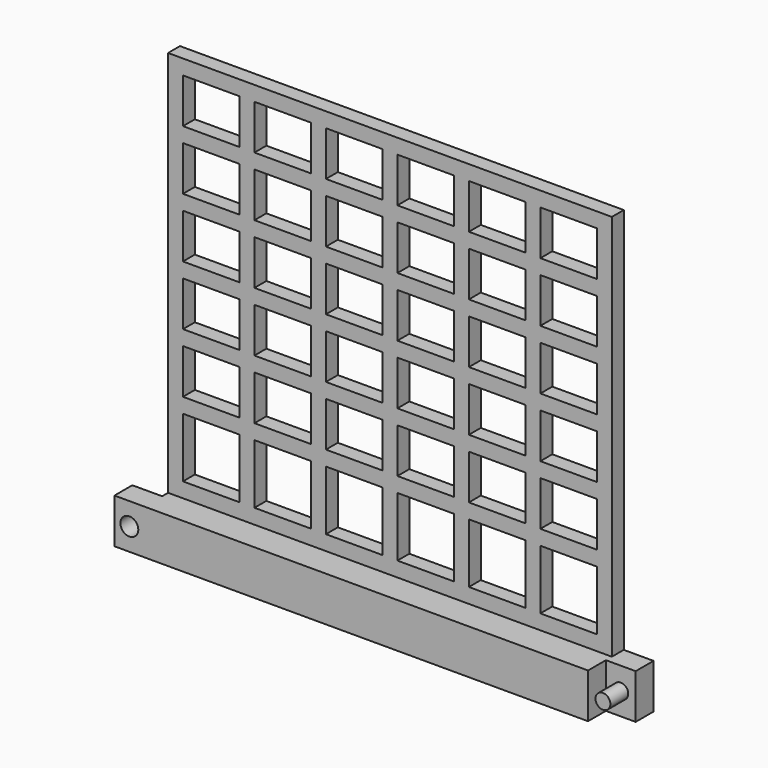
from build123d import *

# Parameters (mm, degrees)
F0_W      = 149
F0_H      = 145
F0_W_2    = 19
F0_H_2    = 20
F0_H_3    = 15
F1_DEPTH  = 5
F2_W      = 149
F2_H      = 15
F3_DEPTH  = 10
F4_W      = 7.5
F4_H      = 15
F5_DEPTH  = 10
F6_R      = 3
F7_DEPTH  = 7.5
F9_DEPTH  = 10
F10_R     = 2.5
F11_DEPTH = 7.5


with BuildPart() as f1:
    # F0 (on Front) → F1 (new body)
    with BuildSketch(Plane.XZ):
        with Locations((74.5, 72.5)):
            Rectangle(F0_W, F0_H)
        with Locations((14.5, 30)):
            Rectangle(F0_W_2, F0_H_2, mode=Mode.SUBTRACT)
        with Locations((38.5, 30)):
            Rectangle(F0_W_2, F0_H_2, mode=Mode.SUBTRACT)
        with Locations((62.5, 30)):
            Rectangle(F0_W_2, F0_H_2, mode=Mode.SUBTRACT)
        with Locations((14.5, 52.5)):
            Rectangle(F0_W_2, F0_H_3, mode=Mode.SUBTRACT)
        with Locations((38.5, 52.5)):
            Rectangle(F0_W_2, F0_H_3, mode=Mode.SUBTRACT)
        with Locations((62.5, 52.5)):
            Rectangle(F0_W_2, F0_H_3, mode=Mode.SUBTRACT)
        with Locations((86.5, 30)):
            Rectangle(F0_W_2, F0_H_2, mode=Mode.SUBTRACT)
        with Locations((110.5, 30)):
            Rectangle(F0_W_2, F0_H_2, mode=Mode.SUBTRACT)
        with Locations((134.5, 30)):
            Rectangle(F0_W_2, F0_H_2, mode=Mode.SUBTRACT)
        with Locations((86.5, 52.5)):
            Rectangle(F0_W_2, F0_H_3, mode=Mode.SUBTRACT)
        with Locations((110.5, 52.5)):
            Rectangle(F0_W_2, F0_H_3, mode=Mode.SUBTRACT)
        with Locations((134.5, 52.5)):
            Rectangle(F0_W_2, F0_H_3, mode=Mode.SUBTRACT)
        with Locations((14.5, 72.5)):
            Rectangle(F0_W_2, F0_H_3, mode=Mode.SUBTRACT)
        with Locations((14.5, 92.5)):
            Rectangle(F0_W_2, F0_H_3, mode=Mode.SUBTRACT)
        with Locations((38.5, 72.5)):
            Rectangle(F0_W_2, F0_H_3, mode=Mode.SUBTRACT)
        with Locations((62.5, 72.5)):
            Rectangle(F0_W_2, F0_H_3, mode=Mode.SUBTRACT)
        with Locations((38.5, 92.5)):
            Rectangle(F0_W_2, F0_H_3, mode=Mode.SUBTRACT)
        with Locations((62.5, 92.5)):
            Rectangle(F0_W_2, F0_H_3, mode=Mode.SUBTRACT)
        with Locations((14.5, 112.5)):
            Rectangle(F0_W_2, F0_H_3, mode=Mode.SUBTRACT)
        with Locations((14.5, 132.5)):
            Rectangle(F0_W_2, F0_H_3, mode=Mode.SUBTRACT)
        with Locations((38.5, 112.5)):
            Rectangle(F0_W_2, F0_H_3, mode=Mode.SUBTRACT)
        with Locations((62.5, 112.5)):
            Rectangle(F0_W_2, F0_H_3, mode=Mode.SUBTRACT)
        with Locations((38.5, 132.5)):
            Rectangle(F0_W_2, F0_H_3, mode=Mode.SUBTRACT)
        with Locations((62.5, 132.5)):
            Rectangle(F0_W_2, F0_H_3, mode=Mode.SUBTRACT)
        with Locations((86.5, 72.5)):
            Rectangle(F0_W_2, F0_H_3, mode=Mode.SUBTRACT)
        with Locations((110.5, 72.5)):
            Rectangle(F0_W_2, F0_H_3, mode=Mode.SUBTRACT)
        with Locations((86.5, 92.5)):
            Rectangle(F0_W_2, F0_H_3, mode=Mode.SUBTRACT)
        with Locations((110.5, 92.5)):
            Rectangle(F0_W_2, F0_H_3, mode=Mode.SUBTRACT)
        with Locations((134.5, 72.5)):
            Rectangle(F0_W_2, F0_H_3, mode=Mode.SUBTRACT)
        with Locations((134.5, 92.5)):
            Rectangle(F0_W_2, F0_H_3, mode=Mode.SUBTRACT)
        with Locations((86.5, 112.5)):
            Rectangle(F0_W_2, F0_H_3, mode=Mode.SUBTRACT)
        with Locations((110.5, 112.5)):
            Rectangle(F0_W_2, F0_H_3, mode=Mode.SUBTRACT)
        with Locations((86.5, 132.5)):
            Rectangle(F0_W_2, F0_H_3, mode=Mode.SUBTRACT)
        with Locations((110.5, 132.5)):
            Rectangle(F0_W_2, F0_H_3, mode=Mode.SUBTRACT)
        with Locations((134.5, 112.5)):
            Rectangle(F0_W_2, F0_H_3, mode=Mode.SUBTRACT)
        with Locations((134.5, 132.5)):
            Rectangle(F0_W_2, F0_H_3, mode=Mode.SUBTRACT)
    extrude(amount=F1_DEPTH)

    # F2 (on face) → F3 (join)
    with BuildSketch(Plane.XZ.offset(5)):
        with Locations((74.5, 7.5)):
            Rectangle(F2_W, F2_H)
    extrude(amount=F3_DEPTH)

    # F4 (on face) → F5 (join)
    with BuildSketch(Plane(origin=(0, 0, 0), x_dir=(0, -1, 0), z_dir=(-1, 0, 0))):
        with Locations((11.25, 7.5)):
            Rectangle(F4_W, F4_H)
    extrude(amount=F5_DEPTH)

    # F6 (on face) → F7 (cut, through all)
    with BuildSketch(Plane(origin=(0, -7.5, 0), x_dir=(-1, 0, 0), z_dir=(0, 1, 0))):
        with Locations((5, 7.5)):
            Circle(F6_R)
    extrude(amount=-F7_DEPTH, mode=Mode.SUBTRACT)

    # F8 (on face) → F9 (join)
    with BuildSketch(Plane.YZ.offset(149)):
        Polygon((-7.5, 15), (-7.5, 0), (0, 0), (0, 15), (-5, 15), align=None)
    extrude(amount=F9_DEPTH)

    # F10 (on face) → F11 (join)
    with BuildSketch(Plane.XZ.offset(7.5)):
        with Locations((154, 7.5)):
            Circle(F10_R)
    extrude(amount=F11_DEPTH)


solid = f1.part
